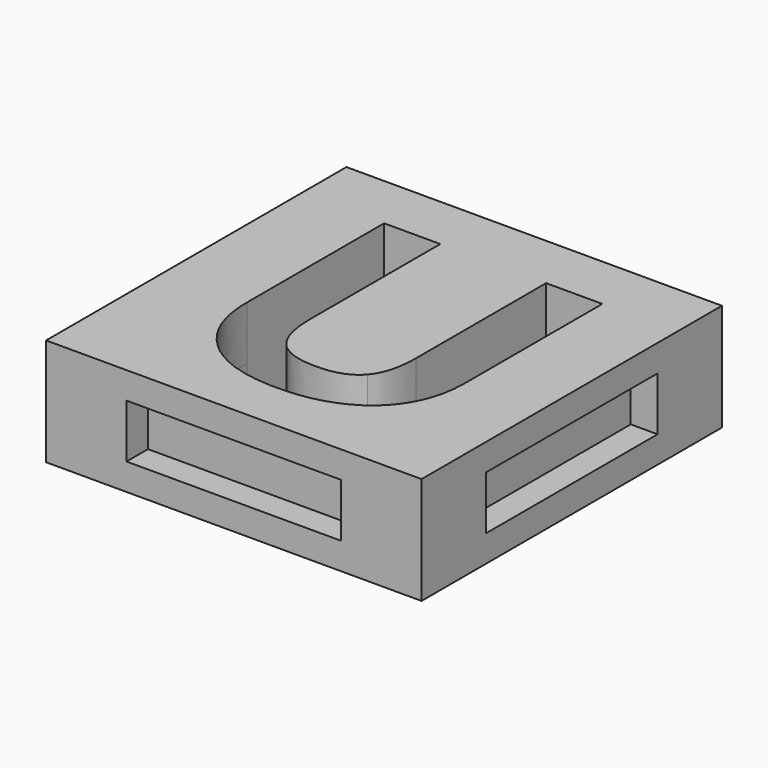
from build123d import *

# Parameters (mm, degrees)
F0_W     = 35.56
F0_H     = 35.56
F1_DEPTH = 5.08
F2_W     = 19.812
F2_H     = 4.572
F3_DEPTH = 2.54
F4_W     = 19.812
F4_H     = 4.572
F5_DEPTH = 2.54
F6_W     = 20.32
F6_H     = 5.08
F7_DEPTH = 2.54
F8_W     = 20.32
F8_H     = 5.08
F9_DEPTH = 2.54


with BuildPart() as f1:
    # F0 (on Top) → F1 (new body, symmetric)
    with BuildSketch(Plane.XY):
        Rectangle(F0_W, F0_H)
        with BuildLine():
            Line((5.3660807292, 12.4850260417), (10.6908203125, 12.4850260417))
            Line((10.6908203125, 12.4850260417), (10.6908203125, -3.8088975694))
            add(Edge.make_bspline(
                [(10.6908203125, -3.8088975694), (10.6908203125, -6.6035590278), (9.4423177083, -8.7036892361)],
                knots=[0, 0, 0, 1, 1, 1], degree=2))
            add(Edge.make_bspline(
                [(9.4423177083, -8.7036892361), (8.1938151042, -10.8038194444), (5.8318576389, -11.9255425347)],
                knots=[0, 0, 0, 1, 1, 1], degree=2))
            add(Edge.make_bspline(
                [(5.8318576389, -11.9255425347), (3.4699001736, -13.047265625), (0.2508029514, -13.047265625)],
                knots=[0, 0, 0, 1, 1, 1], degree=2))
            add(Edge.make_bspline(
                [(0.2508029514, -13.047265625), (-4.6054036458, -13.047265625), (-7.292578125, -10.5557725694)],
                knots=[0, 0, 0, 1, 1, 1], degree=2))
            add(Edge.make_bspline(
                [(-7.292578125, -10.5557725694), (-9.9797526042, -8.0642795139), (-9.9797526042, -3.7427517361)],
                knots=[0, 0, 0, 1, 1, 1], degree=2))
            Line((-9.9797526042, -3.7427517361), (-9.9797526042, 12.4850260417))
            Line((-9.9797526042, 12.4850260417), (-4.6605251736, 12.4850260417))
            Line((-4.6605251736, 12.4850260417), (-4.6605251736, -2.9324652778))
            add(Edge.make_bspline(
                [(-4.6605251736, -2.9324652778), (-4.6605251736, -5.8428819444), (-3.4891927083, -7.2043836806)],
                knots=[0, 0, 0, 1, 1, 1], degree=2))
            add(Edge.make_bspline(
                [(-3.4891927083, -7.2043836806), (-2.3178602431, -8.5658854167), (0.3886067708, -8.5658854167)],
                knots=[0, 0, 0, 1, 1, 1], degree=2))
            add(Edge.make_bspline(
                [(0.3886067708, -8.5658854167), (3.0068793403, -8.5658854167), (4.1864800347, -7.1961154514)],
                knots=[0, 0, 0, 1, 1, 1], degree=2))
            add(Edge.make_bspline(
                [(4.1864800347, -7.1961154514), (5.3660807292, -5.8263454861), (5.3660807292, -2.8993923611)],
                knots=[0, 0, 0, 1, 1, 1], degree=2))
            Line((5.3660807292, -2.8993923611), (5.3660807292, 12.4850260417))
        make_face(mode=Mode.SUBTRACT)
    extrude(amount=F1_DEPTH, both=True)

    # F2 (on face) → F3 (join)
    with BuildSketch(Plane(origin=(0, 17.78, 0), x_dir=(-1, 0, 0), z_dir=(0, 1, 0))):
        Rectangle(F2_W, F2_H)
    extrude(amount=F3_DEPTH)

    # F4 (on face) → F5 (join)
    with BuildSketch(Plane(origin=(-17.78, 0, 0), x_dir=(0, -1, 0), z_dir=(-1, 0, 0))):
        Rectangle(F4_W, F4_H)
    extrude(amount=F5_DEPTH)

    # F6 (on face) → F7 (cut)
    with BuildSketch(Plane.XZ.offset(17.78)):
        Rectangle(F6_W, F6_H)
    extrude(amount=-F7_DEPTH, mode=Mode.SUBTRACT)

    # F8 (on face) → F9 (cut)
    with BuildSketch(Plane.YZ.offset(17.78)):
        Rectangle(F8_W, F8_H)
    extrude(amount=-F9_DEPTH, mode=Mode.SUBTRACT)


solid = f1.part
